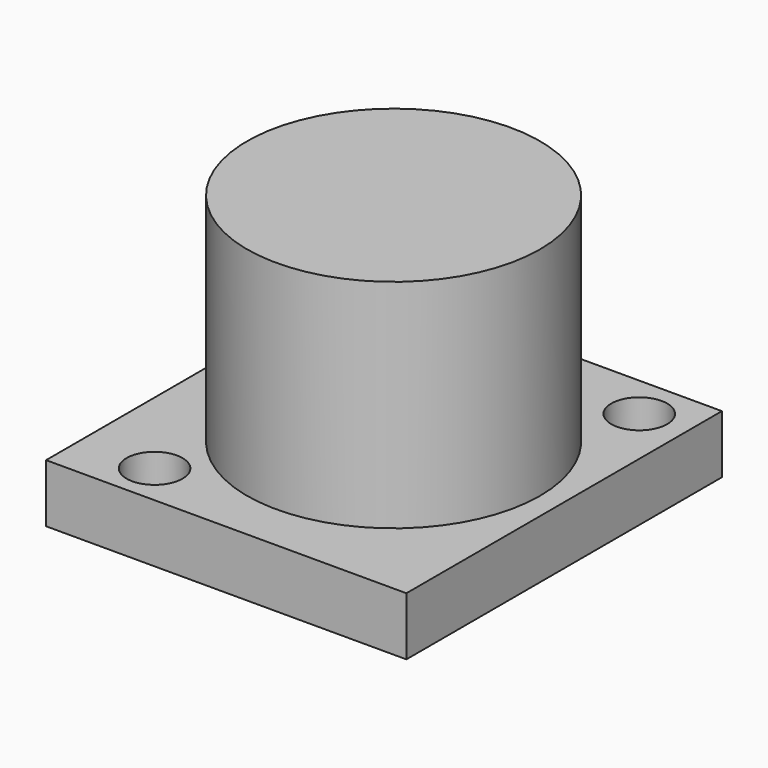
from build123d import *

# Parameters (mm, degrees)
F0_R     = 8.1788
F2_DEPTH = 15.367
F0_W     = 20.1168
F0_H     = 22.0218
F3_DEPTH = 3.2512
F1_R     = 1.5621
F4_DEPTH = 1.6256
F5_DEPTH = 3.2512
F6_DEPTH = 3.2512


with BuildPart() as f2:
    # F0 (on Top) → F2 (new body)
    with BuildSketch(Plane.XY):
        Circle(F0_R)
    extrude(amount=F2_DEPTH)

    # F1 (on Top) → F4 (cut)
    with BuildSketch(Plane.XY):
        with Locations((6.7183, 8.7503)):
            Circle(F1_R)
    extrude(amount=-F4_DEPTH, mode=Mode.SUBTRACT)


with BuildPart() as f3:
    # F0 (on Top) → F3 (new body)
    with BuildSketch(Plane.XY):
        with Locations((-0.6858, 0.1905)):
            Rectangle(F0_W, F0_H)
        Circle(F0_R, mode=Mode.SUBTRACT)
    extrude(amount=F3_DEPTH)

    # F1 (on Top) → F5 (cut)
    with BuildSketch(Plane.XY):
        with Locations((-6.5659, -8.4709)):
            Circle(F1_R)
    extrude(amount=F5_DEPTH, mode=Mode.SUBTRACT)

    # F1 (on Top) → F6 (cut)
    with BuildSketch(Plane.XY):
        with Locations((6.7183, 8.7503)):
            Circle(F1_R)
    extrude(amount=F6_DEPTH, mode=Mode.SUBTRACT)


solid = Compound([f2.part, f3.part])
